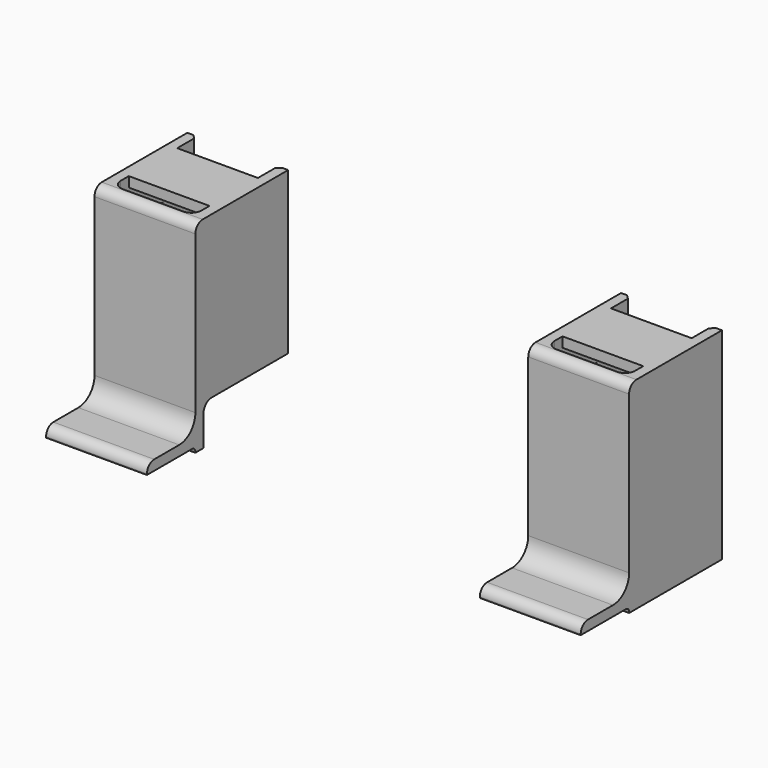
from build123d import *

# Parameters (mm, degrees)
SKETCH016_W                    = 20
SKETCH016_H                    = 10
PAD011_DEPTH                   = 1
SKETCH017_W                    = 2
SKETCH017_H                    = 10
PAD012_DEPTH                   = 10
SKETCH018_W                    = 9
SKETCH018_H                    = 1
PAD013_DEPTH                   = 10
SKETCH019_W                    = 5
SKETCH019_H                    = 1
PAD014_DEPTH                   = 5
SKETCH020_W                    = 5
SKETCH020_H                    = 8
PAD015_DEPTH                   = 1
SKETCH021_R                    = 0.6
POCKET003_DEPTH                = 5
SKETCH022_W                    = 8
SKETCH022_H                    = 6
PAD016_DEPTH                   = 1
SKETCH023_W                    = 2
SKETCH023_H                    = 2
POCKET004_DEPTH                = 5
SKETCH024_W                    = 1
SKETCH024_H                    = 10
PAD017_DEPTH                   = 9
SKETCH025_W                    = 1
SKETCH025_H                    = 10
PAD018_DEPTH                   = 6
SKETCH026_W                    = 1
SKETCH026_H                    = 10
PAD019_DEPTH                   = 5
SKETCH027_W                    = 7
SKETCH027_H                    = 10
PAD020_DEPTH                   = 1
FILLET_R                       = 0.9
FILLET001_R                    = 2
SKETCH028_W                    = 20
SKETCH028_H                    = 1
SKETCH028_W_2                  = 16
PAD021_DEPTH                   = 0.5
CHAMFER_SIZE                   = 0.4
CHAMFER001_SIZE                = 0.4
FILLET002_R                    = 1
FILLET003_R                    = 0.3
FILLET004_R                    = 1
FILLET005_R                    = 0.4
BODY003_PITCH_ANGLE            = 90
BODY003_PLACEMENT_ANGLE        = -90
LINK_ROLL_ANGLE                = -90
LINK_PLACEMENT_ANGLE           = 90
PART_MIRRORING_PITCH_ANGLE     = -90
PART_MIRRORING_PLACEMENT_ANGLE = 90


with BuildPart() as right_side:
    # Sketch016 → Pad011 (new body)
    with BuildSketch(Plane.XY):
        Rectangle(SKETCH016_W, SKETCH016_H)
    extrude(amount=PAD011_DEPTH)

    # Sketch017 (on Face5 of Pad011) → Pad012 (join)
    with BuildSketch(Plane(origin=(0, 0, 0), x_dir=(1, 0, 0), z_dir=(0, 0, -1))):
        Rectangle(SKETCH017_W, SKETCH017_H)
    extrude(amount=PAD012_DEPTH)

    # Sketch018 (on Face6 of Pad012) → Pad013 (join)
    with BuildSketch(Plane(origin=(0, 0, 0), x_dir=(1, 0, 0), z_dir=(0, 0, -1))):
        with Locations((-5.5, 4.5)):
            Rectangle(SKETCH018_W, SKETCH018_H)
        with Locations((-5.5, -4.5)):
            Rectangle(SKETCH018_W, SKETCH018_H)
    extrude(amount=PAD013_DEPTH)

    # Sketch019 (on Face10 of Pad013) → Pad014 (join)
    with BuildSketch(Plane(origin=(0, 0, 0), x_dir=(1, 0, 0), z_dir=(0, 0, -1))):
        with Locations((-3.5, 0)):
            Rectangle(SKETCH019_W, SKETCH019_H)
    extrude(amount=PAD014_DEPTH)

    # Sketch020 (on Face24 of Pad014) → Pad015 (join)
    with BuildSketch(Plane(origin=(0, 0, -5), x_dir=(1, 0, 0), z_dir=(0, 0, -1))):
        with Locations((-3.5, 0)):
            Rectangle(SKETCH020_W, SKETCH020_H)
    extrude(amount=PAD015_DEPTH)

    # Sketch021 (on Face25 of Pad015) → Pocket003 (cut)
    with BuildSketch(Plane(origin=(-1, 0, 0), x_dir=(0, -1, 0), z_dir=(-1, 0, 0))):
        with Locations((-2, -8)):
            Circle(SKETCH021_R)
        with Locations((2, -8)):
            Circle(SKETCH021_R)
    extrude(amount=-POCKET003_DEPTH, mode=Mode.SUBTRACT)

    # Sketch022 (on Face9 of Pocket003) → Pad016 (join)
    with BuildSketch(Plane(origin=(-10, 0, 0), x_dir=(0, -1, 0), z_dir=(-1, 0, 0))):
        with Locations((0, -5)):
            Rectangle(SKETCH022_W, SKETCH022_H)
    extrude(amount=-PAD016_DEPTH)

    # Sketch023 (on Face32 of Pad016) → Pocket004 (cut)
    with BuildSketch(Plane(origin=(0, 0, -6), x_dir=(1, 0, 0), z_dir=(0, 0, -1))):
        with Locations((-2.75, 2.25)):
            Rectangle(SKETCH023_W, SKETCH023_H)
        with Locations((-2.75, -2.25)):
            Rectangle(SKETCH023_W, SKETCH023_H)
    extrude(amount=-POCKET004_DEPTH, mode=Mode.SUBTRACT)

    # Sketch024 (on Face13 of Pocket004) → Pad017 (join)
    with BuildSketch(Plane.YZ.offset(1)):
        with Locations((-4.5, -5)):
            Rectangle(SKETCH024_W, SKETCH024_H)
    extrude(amount=PAD017_DEPTH)

    # Sketch025 (on Face7 of Pad017) → Pad018 (join)
    with BuildSketch(Plane.XY.offset(1)):
        with Locations((9, 0)):
            Rectangle(SKETCH025_W, SKETCH025_H)
    extrude(amount=PAD018_DEPTH)

    # Sketch026 (on Face16 of Pad018) → Pad019 (join)
    with BuildSketch(Plane.YZ.offset(1)):
        with Locations((4.5, -5)):
            Rectangle(SKETCH026_W, SKETCH026_H)
    extrude(amount=PAD019_DEPTH)

    # Sketch027 (on Face17 of Pad019) → Pad020 (join)
    with BuildSketch(Plane(origin=(0, 0, -10), x_dir=(1, 0, 0), z_dir=(0, 0, -1))):
        with Locations((2.5, 0)):
            Rectangle(SKETCH027_W, SKETCH027_H)
    extrude(amount=-PAD020_DEPTH)

    # Fillet
    fillet_edges = [right_side.edges().sort_by_distance(p)[0] for p in [
        (8.5, 0, 7),
        (-10, 0, 1),
    ]]
    fillet(fillet_edges, radius=FILLET_R)

    # Fillet001
    fillet001_edges = [right_side.edges().sort_by_distance(p)[0] for p in [
        (8.5, 0, 1),
    ]]
    fillet(fillet001_edges, radius=FILLET001_R)

    # Sketch028 (on Face35 of Fillet001) → Pad021 (join)
    with BuildSketch(Plane(origin=(0, 0, -10), x_dir=(1, 0, 0), z_dir=(0, 0, -1))):
        with Locations((0, 4.5)):
            Rectangle(SKETCH028_W, SKETCH028_H)
        with Locations((-2, -4.5)):
            Rectangle(SKETCH028_W_2, SKETCH028_H)
    extrude(amount=PAD021_DEPTH)

    # Chamfer
    chamfer_edges = [right_side.edges().sort_by_distance(p)[0] for p in [
        (-2, 4, -10.5),
    ]]
    chamfer(chamfer_edges, length=CHAMFER_SIZE)

    # Chamfer001
    chamfer001_edges = [right_side.edges().sort_by_distance(p)[0] for p in [
        (0, -4, -10.5),
    ]]
    chamfer(chamfer001_edges, length=CHAMFER001_SIZE)

    # Fillet002
    fillet002_edges = [right_side.edges().sort_by_distance(p)[0] for p in [
        (-5.5, 4, 0),
        (-5.5, -4, 0),
        (-3.5, 0.5, 0),
        (-3.5, -0.5, 0),
        (-6, 0, 0),
    ]]
    fillet(fillet002_edges, radius=FILLET002_R)

    # Fillet003
    fillet003_edges = [right_side.edges().sort_by_distance(p)[0] for p in [
        (-3.5, 4, -6),
        (-1, 0, -6),
        (-3.5, -4, -6),
        (-1, -4, -7.5),
        (-1, 4, -7.5),
        (-3.5, 4, -5),
        (-1, 2.25, -5),
        (-3.5, 0.5, -5),
        (-3.5, -4, -5),
        (-1, -2.25, -5),
        (-3.5, -0.5, -5),
        (1, 0, -9),
    ]]
    fillet(fillet003_edges, radius=FILLET003_R)

    # Fillet004
    fillet004_edges = [right_side.edges().sort_by_distance(p)[0] for p in [
        (1, 4, -4.35),
        (1, -4, -4.35),
        (5.5, -4, 0),
        (3.5, 4, 0),
        (1, 0, 0),
        (6, 4.5, 0),
    ]]
    fillet(fillet004_edges, radius=FILLET004_R)

    # Fillet005
    fillet005_edges = [right_side.edges().sort_by_distance(p)[0] for p in [
        (9.5, 0, 1),
    ]]
    fillet(fillet005_edges, radius=FILLET005_R)


with BuildPart() as right_side_1:
    # Body003 pitch: moved
    add(right_side.part.rotate(Axis((0, 0, 0), (0, 1, 0)), BODY003_PITCH_ANGLE))


with BuildPart() as right_side_2:
    # Body003 placement: moved
    add(right_side_1.part.moved(Location((-43, -8, 14))).rotate(Axis((-43, -8, 14), (0, 0, 1)), BODY003_PLACEMENT_ANGLE))


with BuildPart() as right_side_link:
    # Link base: copy of right-side
    add(right_side_2.part)


with BuildPart() as right_side_link_1:
    # Link roll: moved
    add(right_side_link.part.rotate(Axis((0, 0, 0), (1, 0, 0)), LINK_ROLL_ANGLE))


with BuildPart() as right_side_link_2:
    # Link placement: moved
    add(right_side_link_1.part.moved(Location((14, 43, -8))).rotate(Axis((14, 43, -8), (0, 0, 1)), LINK_PLACEMENT_ANGLE))


with BuildPart() as left_side:
    # Part__Mirroring: instance of right-side-link
    add(right_side_link_2.part.mirror(Plane(origin=(0, 0, 0), x_dir=(0, -1, 0), z_dir=(1, 0, 0))))


with BuildPart() as left_side_1:
    # Part__Mirroring pitch: moved
    add(left_side.part.rotate(Axis((0, 0, 0), (0, 1, 0)), PART_MIRRORING_PITCH_ANGLE))


with BuildPart() as left_side_2:
    # Part__Mirroring placement: moved
    add(left_side_1.part.moved(Location((0, -8, 14))).rotate(Axis((0, -8, 14), (0, 0, 1)), PART_MIRRORING_PLACEMENT_ANGLE))


solid = Compound([right_side_2.part, left_side_2.part])
